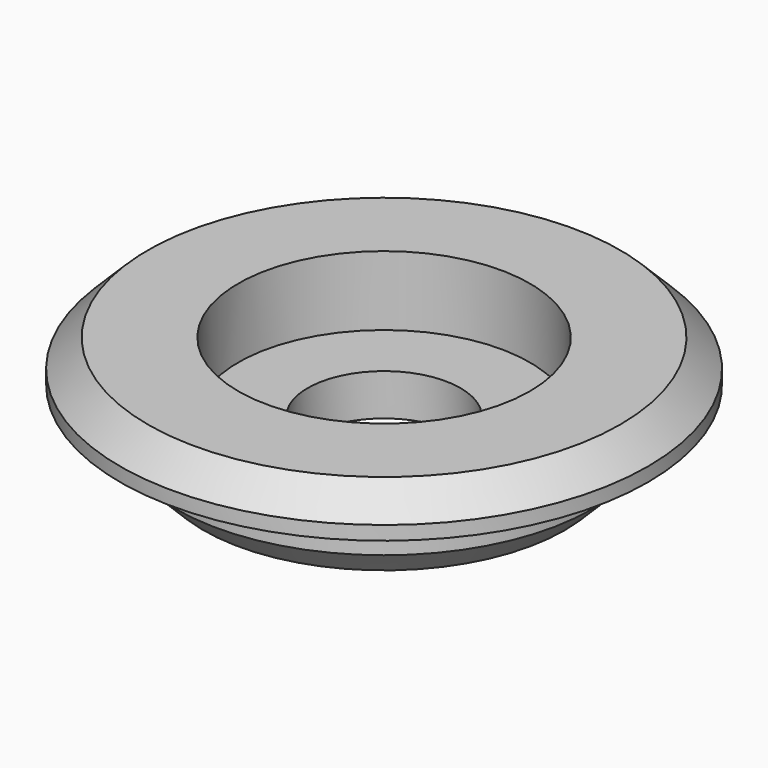
from build123d import *

# Parameters (mm, degrees)
SKETCH_R        = 7.5
PAD_DEPTH       = 2.5
SKETCH001_R     = 9.5
PAD001_DEPTH    = 1.5
SKETCH002_R     = 5.25
POCKET_DEPTH    = 2.5
SKETCH003_R     = 2.75
POCKET001_DEPTH = 5
CHAMFER_SIZE    = 1
CHAMFER001_SIZE = 1


with BuildPart() as part:
    # Sketch → Pad (new body)
    with BuildSketch(Plane.XY):
        Circle(SKETCH_R)
    extrude(amount=PAD_DEPTH)

    # Sketch001 (on Face3 of Pad) → Pad001 (join)
    with BuildSketch(Plane.XY.offset(2.5)):
        Circle(SKETCH001_R)
    extrude(amount=PAD001_DEPTH)

    # Sketch002 (on Face5 of Pad001) → Pocket (cut)
    with BuildSketch(Plane.XY.offset(4)):
        Circle(SKETCH002_R)
    extrude(amount=-POCKET_DEPTH, mode=Mode.SUBTRACT)

    # Sketch003 (on Face2 of Pocket) → Pocket001 (cut)
    with BuildSketch(Plane(origin=(0, 0, 0), x_dir=(1, 0, 0), z_dir=(0, 0, -1))):
        Circle(SKETCH003_R)
    extrude(amount=-POCKET001_DEPTH, mode=Mode.SUBTRACT)

    # Chamfer
    chamfer_edges = [part.edges().sort_by_distance(p)[0] for p in [
        (-9.5, 0, 4),
    ]]
    chamfer(chamfer_edges, length=CHAMFER_SIZE)

    # Chamfer001
    chamfer001_edges = [part.edges().sort_by_distance(p)[0] for p in [
        (-7.5, 0, 0),
    ]]
    chamfer(chamfer001_edges, length=CHAMFER001_SIZE)


solid = part.part
